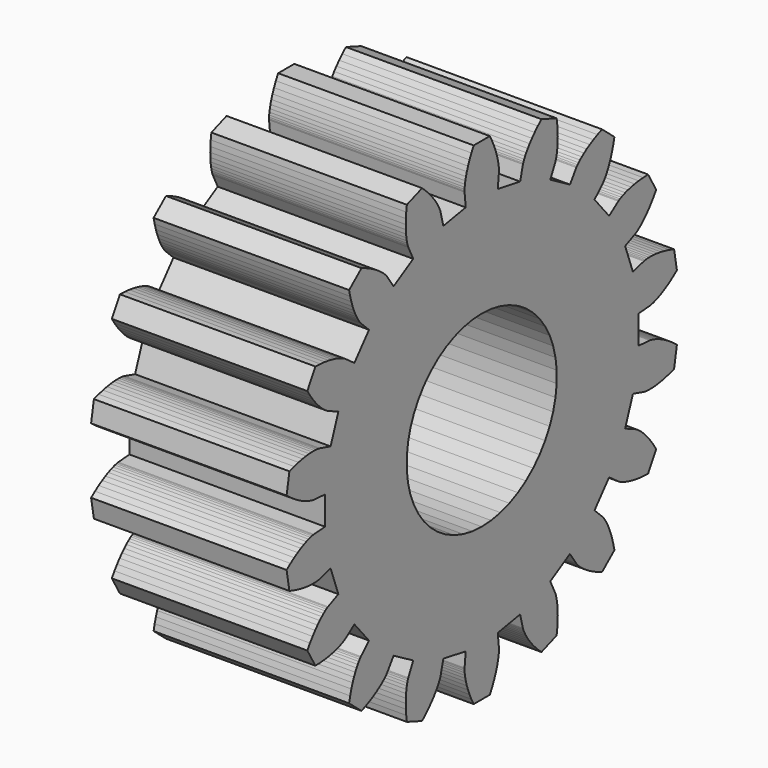
from build123d import *

# Parameters (mm, degrees)
PRISM_DEPTH            = 7
LINEAREXTRUDE_DEPTH    = 5
DIFFERENCE_PITCH_ANGLE = 90


with BuildPart() as prism:
    # prism → prism (new body)
    with BuildSketch(Plane.XY.offset(-1)):
        Polygon((2.4, 0), (2.381075, 0.3008), (2.3246, 0.596856), (2.231464, 0.883499), (2.103136, 1.156209), (1.941641, 1.410685), (1.749525, 1.642913), (1.529818, 1.849232), (1.285984, 2.026387), (1.02187, 2.171585), (0.741641, 2.282536), (0.449715, 2.357489), (0.150697, 2.395264), (-0.150697, 2.395264), (-0.449715, 2.357489), (-0.741641, 2.282536), (-1.02187, 2.171585), (-1.285984, 2.026387), (-1.529818, 1.849232), (-1.749525, 1.642913), (-1.941641, 1.410685), (-2.103136, 1.156209), (-2.231464, 0.883499), (-2.3246, 0.596856), (-2.381075, 0.3008), (-2.4, 0), (-2.381075, -0.3008), (-2.3246, -0.596856), (-2.231464, -0.883499), (-2.103136, -1.156209), (-1.941641, -1.410685), (-1.749525, -1.642913), (-1.529818, -1.849232), (-1.285984, -2.026387), (-1.02187, -2.171585), (-0.741641, -2.282536), (-0.449715, -2.357489), (-0.150697, -2.395264), (0.150697, -2.395264), (0.449715, -2.357489), (0.741641, -2.282536), (1.02187, -2.171585), (1.285984, -2.026387), (1.529818, -1.849232), (1.749525, -1.642913), (1.941641, -1.410685), (2.103136, -1.156209), (2.231464, -0.883499), (2.3246, -0.596856), (2.381075, -0.3008), align=None)
    extrude(amount=PRISM_DEPTH)


with BuildPart() as pinion_final:
    # RefineLinearExtrude → LinearExtrude (new body)
    with BuildSketch(Plane(origin=(0, 0, 0), x_dir=(0, -1, 0), z_dir=(0, 0, -1))):
        Polygon((-0.504573, -5.68792), (-0.476443, -5.78688), (-0.438951, -5.89728), (-0.390882, -6.0184), (-0.331072, -6.14942), (-0.258414, -6.28943), (0.258414, -6.28943), (0.331072, -6.14942), (0.390882, -6.0184), (0.438951, -5.89728), (0.476443, -5.78688), (0.504573, -5.68792), (0.524602, -5.60104), (0.537828, -5.52677), (0.54558, -5.46553), (0.54921, -5.41766), (0.550092, -5.38338), (0.549605, -5.36281), (0.549136, -5.35596), (0.512344, -4.997112), (1.227667, -4.870981), (1.315827, -5.220772), (1.317729, -5.227369), (1.324307, -5.246865), (1.33686, -5.278776), (1.356644, -5.322518), (1.384874, -5.377413), (1.422704, -5.44268), (1.47124, -5.517471), (1.53152, -5.600842), (1.60451, -5.691761), (1.691105, -5.789136), (1.79212, -5.891798), (1.908282, -5.998514), (2.393941, -5.821748), (2.414331, -5.665331), (2.425723, -5.521757), (2.429468, -5.3915), (2.426939, -5.274935), (2.419527, -5.172322), (2.408633, -5.083832), (2.39566, -5.009517), (2.381999, -4.949319), (2.369037, -4.903094), (2.358142, -4.87058), (2.350649, -4.851417), (2.347865, -4.845141), (2.190559, -4.520517), (2.819603, -4.157338), (3.022082, -4.455881), (3.026126, -4.46143), (3.038975, -4.477501), (3.061685, -4.503194), (3.095236, -4.537531), (3.140539, -4.579461), (3.198411, -4.627853), (3.269599, -4.681533), (3.354758, -4.739259), (3.454443, -4.799731), (3.56912, -4.861616), (3.699155, -4.923538), (3.844811, -4.984088), (4.240724, -4.651878), (4.206387, -4.49792), (4.167986, -4.359108), (4.126954, -4.235426), (4.084711, -4.126756), (4.04265, -4.032866), (4.002148, -3.953438), (3.964539, -3.888042), (3.931113, -3.836147), (3.903124, -3.797143), (3.881765, -3.770316), (3.86817, -3.754872), (3.863407, -3.749926), (3.60456, -3.498681), (4.071454, -2.942259), (4.363829, -3.153546), (4.369527, -3.157377), (4.387098, -3.168084), (4.417226, -3.18446), (4.460498, -3.205251), (4.517409, -3.229158), (4.588342, -3.254839), (4.673597, -3.280933), (4.773364, -3.306052), (4.887719, -3.328783), (5.016646, -3.347714), (5.160018, -3.361427), (5.317599, -3.368508), (5.576013, -2.920922), (5.49109, -2.787993), (5.407528, -2.670686), (5.32667, -2.568497), (5.249807, -2.480828), (5.17817, -2.406987), (5.112944, -2.346201), (5.055237, -2.297612), (5.006078, -2.260279), (4.966436, -2.2332), (4.93719, -2.215296), (4.919132, -2.205433), (4.912965, -2.202414), (4.583798, -2.054853), (4.832227, -1.3723), (5.179234, -1.470846), (5.185899, -1.472497), (5.206072, -1.476549), (5.239984, -1.481633), (5.287757, -1.486371), (5.349413, -1.489371), (5.424851, -1.489243), (5.51389, -1.484604), (5.616231, -1.474086), (5.731464, -1.456334), (5.859091, -1.430028), (5.998506, -1.393878), (6.149006, -1.346636), (6.238753, -0.83766), (6.113487, -0.741793), (5.994843, -0.660141), (5.88391, -0.59177), (5.781698, -0.535676), (5.689126, -0.49079), (5.607044, -0.455978), (5.536199, -0.430056), (5.477235, -0.411788), (5.430723, -0.399901), (5.397117, -0.393079), (5.376775, -0.389987), (5.369947, -0.389259), (5.010162, -0.363179), (5.010162, 0.363179), (5.369947, 0.389259), (5.376775, 0.389987), (5.397117, 0.393079), (5.430723, 0.399901), (5.477235, 0.411788), (5.536199, 0.430056), (5.607044, 0.455978), (5.689126, 0.49079), (5.781698, 0.535676), (5.88391, 0.59177), (5.994843, 0.660141), (6.113487, 0.741793), (6.238753, 0.83766), (6.149006, 1.346636), (5.998506, 1.393878), (5.859091, 1.430028), (5.731464, 1.456334), (5.616231, 1.474086), (5.51389, 1.484604), (5.424851, 1.489243), (5.349413, 1.489371), (5.287757, 1.486371), (5.239984, 1.481633), (5.206072, 1.476549), (5.185899, 1.472497), (5.179234, 1.470846), (4.832227, 1.3723), (4.583797, 2.054855), (4.912965, 2.202416), (4.919131, 2.205435), (4.937189, 2.215298), (4.966435, 2.233202), (5.006077, 2.260281), (5.055236, 2.297614), (5.112943, 2.346203), (5.178169, 2.406989), (5.249806, 2.48083), (5.326669, 2.568499), (5.407527, 2.670688), (5.491089, 2.787995), (5.576012, 2.920924), (5.317598, 3.36851), (5.160017, 3.361429), (5.016645, 3.347716), (4.887717, 3.328785), (4.773362, 3.306054), (4.673595, 3.280935), (4.588341, 3.254841), (4.517408, 3.22916), (4.460497, 3.205253), (4.417225, 3.184462), (4.387097, 3.168085), (4.369526, 3.157379), (4.363828, 3.153547), (4.071452, 2.94226), (3.604562, 3.498679), (3.863409, 3.749923), (3.868172, 3.754869), (3.881767, 3.770314), (3.903126, 3.797141), (3.931116, 3.836145), (3.964542, 3.88804), (4.00215, 3.953436), (4.042652, 4.032864), (4.084714, 4.126753), (4.126957, 4.235424), (4.167988, 4.359105), (4.206389, 4.497918), (4.240727, 4.651875), (3.844814, 4.984086), (3.699158, 4.923536), (3.569123, 4.861614), (3.454445, 4.799729), (3.354761, 4.739257), (3.269602, 4.681531), (3.198413, 4.627851), (3.140542, 4.579459), (3.095239, 4.537529), (3.061688, 4.503192), (3.038978, 4.477499), (3.026128, 4.461428), (3.022085, 4.45588), (2.819606, 4.157337), (2.190558, 4.520518), (2.347864, 4.845141), (2.350648, 4.851417), (2.358141, 4.87058), (2.369036, 4.903095), (2.381998, 4.949319), (2.395659, 5.009517), (2.408632, 5.083832), (2.419526, 5.172323), (2.426938, 5.274936), (2.429466, 5.391501), (2.425722, 5.521757), (2.41433, 5.665332), (2.39394, 5.821749), (1.908281, 5.998514), (1.792118, 5.891798), (1.691104, 5.789136), (1.604508, 5.691761), (1.531518, 5.600842), (1.471239, 5.517471), (1.422703, 5.442681), (1.384873, 5.377413), (1.356643, 5.322518), (1.336859, 5.278776), (1.324306, 5.246865), (1.317728, 5.227369), (1.315826, 5.220772), (1.227666, 4.870981), (0.512344, 4.997112), (0.549136, 5.35596), (0.549605, 5.36281), (0.550092, 5.38338), (0.54921, 5.41766), (0.54558, 5.46553), (0.537828, 5.52677), (0.524602, 5.60104), (0.504573, 5.68792), (0.476443, 5.78688), (0.438951, 5.89728), (0.390882, 6.0184), (0.331072, 6.14942), (0.258414, 6.28943), (-0.258414, 6.28943), (-0.331072, 6.14942), (-0.390882, 6.0184), (-0.438951, 5.89728), (-0.476443, 5.78688), (-0.504573, 5.68792), (-0.524602, 5.60104), (-0.537828, 5.52677), (-0.54558, 5.46553), (-0.54921, 5.41766), (-0.550092, 5.38338), (-0.549605, 5.36281), (-0.549136, 5.35596), (-0.512344, 4.997112), (-1.227667, 4.870981), (-1.315827, 5.220772), (-1.317729, 5.227369), (-1.324307, 5.246865), (-1.33686, 5.278776), (-1.356644, 5.322518), (-1.384874, 5.377413), (-1.422704, 5.44268), (-1.47124, 5.517471), (-1.53152, 5.600842), (-1.60451, 5.691761), (-1.691105, 5.789136), (-1.79212, 5.891798), (-1.908282, 5.998514), (-2.393941, 5.821748), (-2.414331, 5.665331), (-2.425723, 5.521757), (-2.429468, 5.3915), (-2.426939, 5.274935), (-2.419527, 5.172322), (-2.408633, 5.083832), (-2.39566, 5.009517), (-2.381999, 4.949319), (-2.369037, 4.903094), (-2.358142, 4.87058), (-2.350649, 4.851417), (-2.347865, 4.845141), (-2.190559, 4.520517), (-2.819603, 4.157338), (-3.022082, 4.455881), (-3.026126, 4.46143), (-3.038975, 4.477501), (-3.061685, 4.503194), (-3.095236, 4.537531), (-3.140539, 4.579461), (-3.198411, 4.627853), (-3.269599, 4.681533), (-3.354758, 4.739259), (-3.454443, 4.799731), (-3.56912, 4.861616), (-3.699155, 4.923538), (-3.844811, 4.984088), (-4.240724, 4.651878), (-4.206387, 4.49792), (-4.167986, 4.359108), (-4.126954, 4.235426), (-4.084711, 4.126756), (-4.04265, 4.032866), (-4.002148, 3.953438), (-3.964539, 3.888042), (-3.931113, 3.836147), (-3.903124, 3.797143), (-3.881765, 3.770316), (-3.86817, 3.754872), (-3.863407, 3.749926), (-3.60456, 3.498681), (-4.071454, 2.942259), (-4.363829, 3.153546), (-4.369527, 3.157377), (-4.387098, 3.168084), (-4.417226, 3.18446), (-4.460498, 3.205251), (-4.517409, 3.229158), (-4.588342, 3.254839), (-4.673597, 3.280933), (-4.773364, 3.306052), (-4.887719, 3.328783), (-5.016646, 3.347714), (-5.160018, 3.361427), (-5.317599, 3.368508), (-5.576013, 2.920922), (-5.49109, 2.787993), (-5.407528, 2.670686), (-5.32667, 2.568497), (-5.249807, 2.480828), (-5.17817, 2.406987), (-5.112944, 2.346201), (-5.055237, 2.297612), (-5.006078, 2.260279), (-4.966436, 2.2332), (-4.93719, 2.215296), (-4.919132, 2.205433), (-4.912965, 2.202414), (-4.583798, 2.054853), (-4.832227, 1.3723), (-5.179234, 1.470846), (-5.185899, 1.472497), (-5.206072, 1.476549), (-5.239984, 1.481633), (-5.287757, 1.486371), (-5.349413, 1.489371), (-5.424851, 1.489243), (-5.51389, 1.484604), (-5.616231, 1.474086), (-5.731464, 1.456334), (-5.859091, 1.430028), (-5.998506, 1.393878), (-6.149006, 1.346636), (-6.238753, 0.83766), (-6.113487, 0.741793), (-5.994843, 0.660141), (-5.88391, 0.59177), (-5.781698, 0.535676), (-5.689126, 0.49079), (-5.607044, 0.455978), (-5.536199, 0.430056), (-5.477235, 0.411788), (-5.430723, 0.399901), (-5.397117, 0.393079), (-5.376775, 0.389987), (-5.369947, 0.389259), (-5.010162, 0.363179), (-5.010162, -0.363179), (-5.369947, -0.389259), (-5.376775, -0.389987), (-5.397117, -0.393079), (-5.430723, -0.399901), (-5.477235, -0.411788), (-5.536199, -0.430056), (-5.607044, -0.455978), (-5.689126, -0.49079), (-5.781698, -0.535676), (-5.88391, -0.59177), (-5.994843, -0.660141), (-6.113487, -0.741793), (-6.238753, -0.83766), (-6.149006, -1.346636), (-5.998506, -1.393878), (-5.859091, -1.430028), (-5.731464, -1.456334), (-5.616231, -1.474086), (-5.51389, -1.484604), (-5.424851, -1.489243), (-5.349413, -1.489371), (-5.287757, -1.486371), (-5.239984, -1.481633), (-5.206072, -1.476549), (-5.185899, -1.472497), (-5.179234, -1.470846), (-4.832227, -1.3723), (-4.583798, -2.054853), (-4.912965, -2.202414), (-4.919132, -2.205433), (-4.93719, -2.215296), (-4.966436, -2.2332), (-5.006078, -2.260279), (-5.055237, -2.297612), (-5.112944, -2.346201), (-5.17817, -2.406987), (-5.249807, -2.480828), (-5.32667, -2.568497), (-5.407528, -2.670686), (-5.49109, -2.787993), (-5.576013, -2.920922), (-5.317599, -3.368508), (-5.160018, -3.361427), (-5.016646, -3.347714), (-4.887719, -3.328783), (-4.773364, -3.306052), (-4.673597, -3.280933), (-4.588342, -3.254839), (-4.517409, -3.229158), (-4.460498, -3.205251), (-4.417226, -3.18446), (-4.387098, -3.168084), (-4.369527, -3.157377), (-4.363829, -3.153546), (-4.071454, -2.942259), (-3.60456, -3.498681), (-3.863407, -3.749926), (-3.86817, -3.754872), (-3.881765, -3.770316), (-3.903124, -3.797143), (-3.931113, -3.836147), (-3.964539, -3.888042), (-4.002148, -3.953438), (-4.04265, -4.032866), (-4.084711, -4.126756), (-4.126954, -4.235426), (-4.167986, -4.359108), (-4.206387, -4.49792), (-4.240724, -4.651878), (-3.844811, -4.984088), (-3.699155, -4.923538), (-3.56912, -4.861616), (-3.454443, -4.799731), (-3.354758, -4.739259), (-3.269599, -4.681533), (-3.198411, -4.627853), (-3.140539, -4.579461), (-3.095236, -4.537531), (-3.061685, -4.503194), (-3.038975, -4.477501), (-3.026126, -4.46143), (-3.022082, -4.455881), (-2.819603, -4.157338), (-2.190559, -4.520517), (-2.347865, -4.845141), (-2.350649, -4.851417), (-2.358142, -4.87058), (-2.369037, -4.903094), (-2.381999, -4.949319), (-2.39566, -5.009517), (-2.408633, -5.083832), (-2.419527, -5.172322), (-2.426939, -5.274935), (-2.429468, -5.3915), (-2.425723, -5.521757), (-2.414331, -5.665331), (-2.393941, -5.821748), (-1.908282, -5.998514), (-1.79212, -5.891798), (-1.691105, -5.789136), (-1.60451, -5.691761), (-1.53152, -5.600842), (-1.47124, -5.517471), (-1.422704, -5.44268), (-1.384874, -5.377413), (-1.356644, -5.322518), (-1.33686, -5.278776), (-1.324307, -5.246865), (-1.317729, -5.227369), (-1.315827, -5.220772), (-1.227667, -4.870981), (-0.512344, -4.997112), (-0.549136, -5.35596), (-0.549605, -5.36281), (-0.550092, -5.38338), (-0.54921, -5.41766), (-0.54558, -5.46553), (-0.537828, -5.52677), (-0.524602, -5.60104), align=None)
    extrude(amount=-LINEAREXTRUDE_DEPTH)

    # difference: cut prism
    add(prism.part, mode=Mode.SUBTRACT)


with BuildPart() as pinion_final_1:
    # difference pitch: moved
    add(pinion_final.part.rotate(Axis((0, 0, 0), (0, 1, 0)), DIFFERENCE_PITCH_ANGLE))


with BuildPart() as pinion_final_2:
    # difference placement: moved
    add(pinion_final_1.part.moved(Location((9, 25, 20))))


solid = pinion_final_2.part
